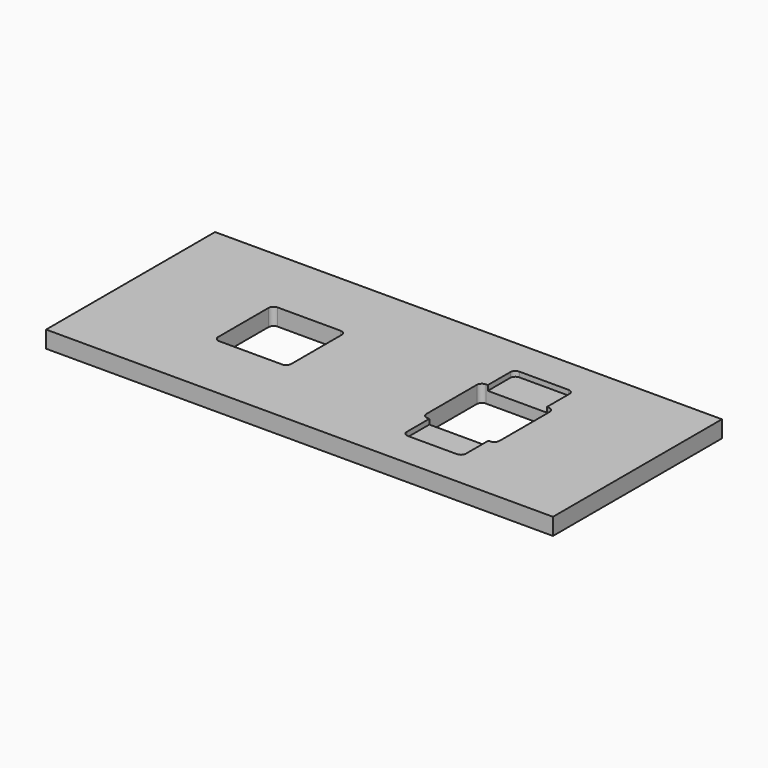
from build123d import *

# Parameters (mm, degrees)
F0_W     = 60
F0_H     = 25
F1_DEPTH = 2
F3_DEPTH = 0.6


with BuildPart() as f1:
    # F0 (on Top) → F1 (new body)
    with BuildSketch(Plane.XY):
        Rectangle(F0_W, F0_H)
        with BuildLine():
            ThreePointArc((-16.65, 3.725), (-16.474264, 4.149264), (-16.05, 4.325))
            Line((-16.05, 4.325), (-8.6, 4.325))
            ThreePointArc((-8.6, 4.325), (-8.175736, 4.149264), (-8, 3.725))
            Line((-8, 3.725), (-8, -3.725))
            ThreePointArc((-8, -3.725), (-8.175736, -4.149264), (-8.6, -4.325))
            Line((-8.6, -4.325), (-16.05, -4.325))
            ThreePointArc((-16.05, -4.325), (-16.474264, -4.149264), (-16.65, -3.725))
            Line((-16.65, -3.725), (-16.65, 3.725))
        make_face(mode=Mode.SUBTRACT)
        with BuildLine():
            ThreePointArc((8, 3.725), (8.175736, 4.149264), (8.6, 4.325))
            Line((8.6, 4.325), (16.05, 4.325))
            ThreePointArc((16.05, 4.325), (16.474264, 4.149264), (16.65, 3.725))
            Line((16.65, 3.725), (16.65, -3.725))
            ThreePointArc((16.65, -3.725), (16.474264, -4.149264), (16.05, -4.325))
            Line((16.05, -4.325), (8.6, -4.325))
            ThreePointArc((8.6, -4.325), (8.175736, -4.149264), (8, -3.725))
            Line((8, -3.725), (8, 3.725))
        make_face(mode=Mode.SUBTRACT)
    extrude(amount=F1_DEPTH)

    # F2 (on face) → F3 (cut)
    with BuildSketch(Plane.XY.offset(2)):
        with BuildLine():
            Line((15.225, 8.25), (9.425, 8.25))
            ThreePointArc((9.425, 8.25), (9.000736, 8.074264), (8.825, 7.65))
            Line((8.825, 7.65), (8.825, 4.325))
            Line((8.825, 4.325), (15.825, 4.325))
            Line((15.825, 4.325), (15.825, 7.65))
            ThreePointArc((15.825, 7.65), (15.649264, 8.074264), (15.225, 8.25))
        make_face()
        with BuildLine():
            Line((15.825, -4.325), (8.825, -4.325))
            Line((8.825, -4.325), (8.825, -7.65))
            ThreePointArc((8.825, -7.65), (9.000736, -8.074264), (9.425, -8.25))
            Line((9.425, -8.25), (15.225, -8.25))
            ThreePointArc((15.225, -8.25), (15.649264, -8.074264), (15.825, -7.65))
            Line((15.825, -7.65), (15.825, -4.325))
        make_face()
    extrude(amount=-F3_DEPTH, mode=Mode.SUBTRACT)


solid = f1.part
